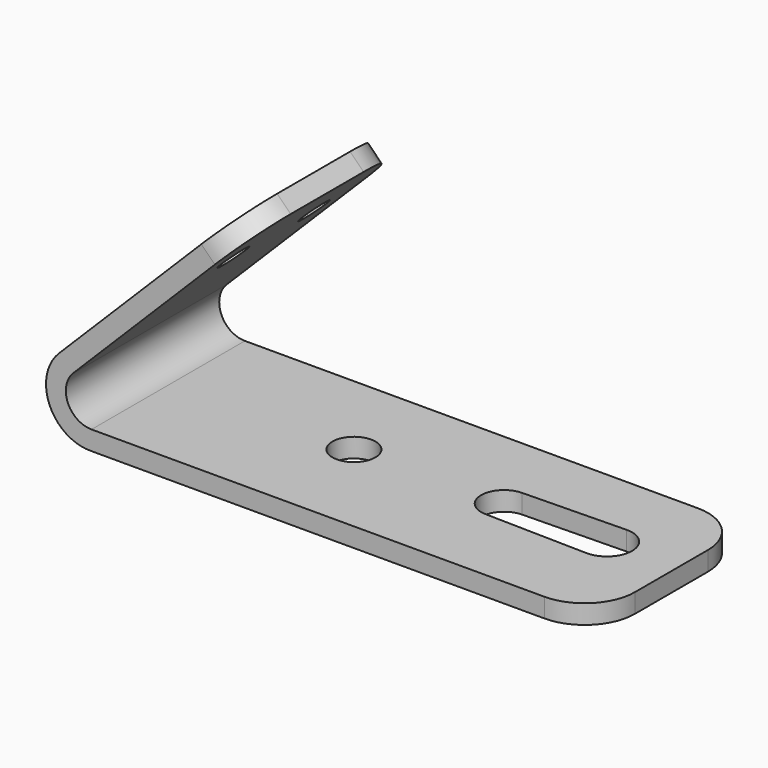
from build123d import *

# Parameters (mm, degrees)
F1_DEPTH = 483.87
F2_R     = 127
F3_R     = 54.23338
F4_DEPTH = 48.300101
F5_R     = 127
F6_R     = 38.1
F7_DEPTH = 50.8


with BuildPart() as f1:
    # F0 (on Front) → F1 (new body)
    with BuildSketch(Plane.XZ):
        with BuildLine():
            Line((604.09601, -75.77075), (604.09601, -27.51075))
            Line((604.09601, -27.51075), (-665.90399, -27.51075))
            ThreePointArc((-665.90399, -27.51075), (-725.133809, 11.079855), (-713.761319, 80.85143))
            Line((-713.761319, 80.85143), (-264.748513, 529.864236))
            Line((-264.748513, 529.864236), (-298.873486, 563.98921))
            Line((-298.873486, 563.98921), (-747.886292, 114.976404))
            ThreePointArc((-747.886292, 114.976404), (-771.538119, -8.180445), (-665.90399, -75.77075))
            Line((-665.90399, -75.77075), (604.09601, -75.77075))
        make_face()
    extrude(amount=-F1_DEPTH)

    # F2
    f2_edges = [f1.edges().sort_by_distance(p)[0] for p in [
        (604.09601, 483.87, -51.64075),
        (604.09601, 0, -51.64075),
    ]]
    fillet(f2_edges, radius=F2_R)

    # F3 (on face) → F4 (cut, through all)
    with BuildSketch(Plane.XY.offset(-27.51075)):
        with BuildLine():
            Line((424.920066, 324.189832), (165.505711, 318.628342))
            ThreePointArc((165.505711, 318.628342), (108.79601, 260.689832), (165.505711, 202.751322))
            Line((165.505711, 202.751322), (424.920066, 197.189832))
            ThreePointArc((424.920066, 197.189832), (489.79601, 260.689832), (424.920066, 324.189832))
        make_face()
        with Locations((-208.70399, 256.359955)):
            Circle(F3_R)
    extrude(amount=-F4_DEPTH, mode=Mode.SUBTRACT)

    # F5
    f5_edges = [f1.edges().sort_by_distance(p)[0] for p in [
        (-281.811, 483.87, 546.926723),
        (-281.811, 0, 546.926723),
    ]]
    fillet(f5_edges, radius=F5_R)

    # F6 (on face) → F7 (cut)
    with BuildSketch(Plane(origin=(-431.431348, 0, 431.431348), x_dir=(0, -1, 0), z_dir=(-0.707107, 0, 0.707107))):
        with Locations((-369.57, -3.034874)):
            Circle(F6_R)
        with Locations((-114.3, -3.034874)):
            Circle(F6_R)
    extrude(amount=-F7_DEPTH, mode=Mode.SUBTRACT)


solid = f1.part
